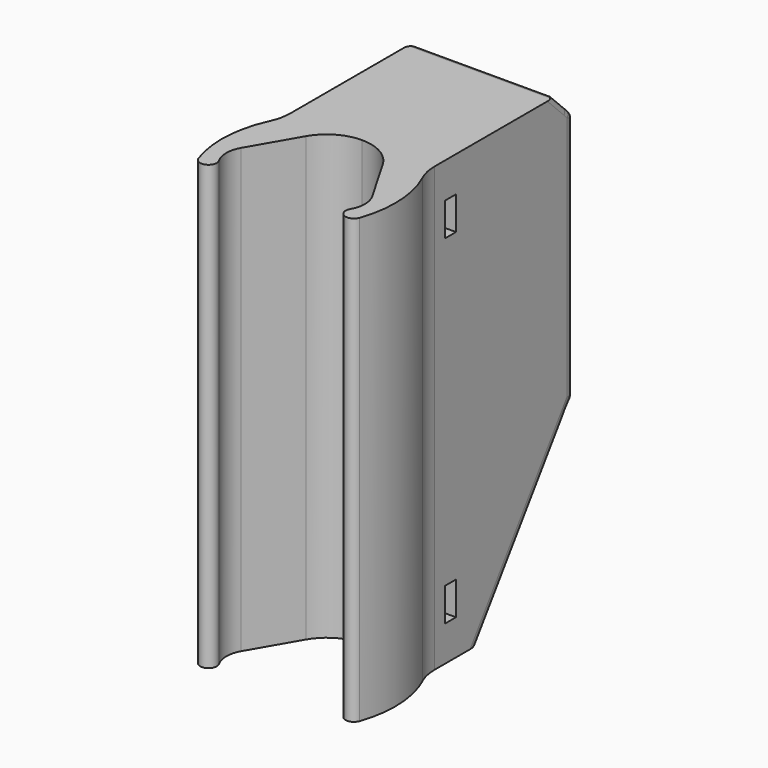
from build123d import *

# Parameters (mm, degrees)
BODY001_PLACEMENT_ANGLE = 45
PAD_DEPTH               = 80
SKETCH001_W             = 2.5
SKETCH001_H             = 6
POCKET_DEPTH            = 28.674996
FILLET_R                = 2
FILLET001_R             = 1


with BuildPart() as body001:
    # Sketch002 → Revolution (revolve)
    with BuildSketch(Plane.YZ):
        Polygon((0, 0), (0, 6.15), (28, 6.15), (28, 10.25), (56.26033, 10.25), (56.26033, 0), align=None)
    revolve(axis=Axis((0, 0, 0), (0, 1, 0)))


with BuildPart() as body001_1:
    # Body001 placement: moved
    add(body001.part.moved(Location((0, 9, 31))).rotate(Axis((0, 9, 31), (1, 0, 0)), BODY001_PLACEMENT_ANGLE))


with BuildPart() as fillet001:
    # Sketch → Pad (new body)
    with BuildSketch(Plane.XY):
        with BuildLine():
            ThreePointArc((0, 3.83), (-4, 2.758203), (-6.928203, -0.17))
            Line((-6.928203, -0.17), (-11.835681, -8.67))
            ThreePointArc((-11.835681, -8.67), (-12.505553, -11.17), (-11.835681, -13.67))
            ThreePointArc((-14.551626, -14.912315), (-12.510772, -15.784071), (-11.835681, -13.67))
            ThreePointArc((-13.807272, 0.232263), (-15.649568, -7.26777), (-14.551626, -14.912315))
            ThreePointArc((-13.807272, 0.232263), (-13.204197, 2.02521), (-13, 3.905811))
            Line((-13, 3.905811), (-13, 33.83))
            ThreePointArc((-11, 35.83), (-12.414214, 35.244214), (-13, 33.83))
            Line((-11, 35.83), (0, 35.83))
            Line((0, 35.83), (0, 3.83))
        make_face()
    pad = extrude(amount=PAD_DEPTH)

    # Mirrored: Pad across Sketch V_Axis
    add(pad.mirror(Plane(origin=(0, 0, 0), x_dir=(0, 0, 1), z_dir=(1, 0, 0))))

    # Sketch001 (on Face20 of Mirrored) → Pocket (cut, through all)
    with BuildSketch(Plane.YZ.offset(13)):
        with Locations((7.516462, 70.611825)):
            Rectangle(SKETCH001_W, SKETCH001_H)
        with Locations((7.516462, 9.388175)):
            Rectangle(SKETCH001_W, SKETCH001_H)
        Polygon((9.062247, -7.596541), (45.172724, 43.974565), (45.172724, -7.596541), align=None)
        Polygon((20.480662, 90.329349), (40.583266, 70.226745), (40.583266, 96.418373), align=None)
    extrude(amount=-POCKET_DEPTH, mode=Mode.SUBTRACT)

    # Cut: cut Body001
    add(body001_1.part, mode=Mode.SUBTRACT)

    # Fillet
    fillet_edges = [fillet001.edges().sort_by_distance(p)[0] for p in [
        (-13, 24.105701, 13.887738),
        (13, 24.105701, 13.887738),
    ]]
    fillet(fillet_edges, radius=FILLET_R)

    # Fillet001
    fillet001_edges = [fillet001.edges().sort_by_distance(p)[0] for p in [
        (-13, 32.320005, 78.490005),
        (-6.5, 30.810011, 80),
        (-12.526592, 35.122098, 75.687913),
        (13, 32.320005, 78.490005),
        (12.526592, 35.122098, 75.687913),
        (5.5, 35.83, 74.980011),
        (-5.5, 35.83, 74.980011),
        (6.5, 30.810011, 80),
    ]]
    fillet(fillet001_edges, radius=FILLET001_R)


solid = fillet001.part
